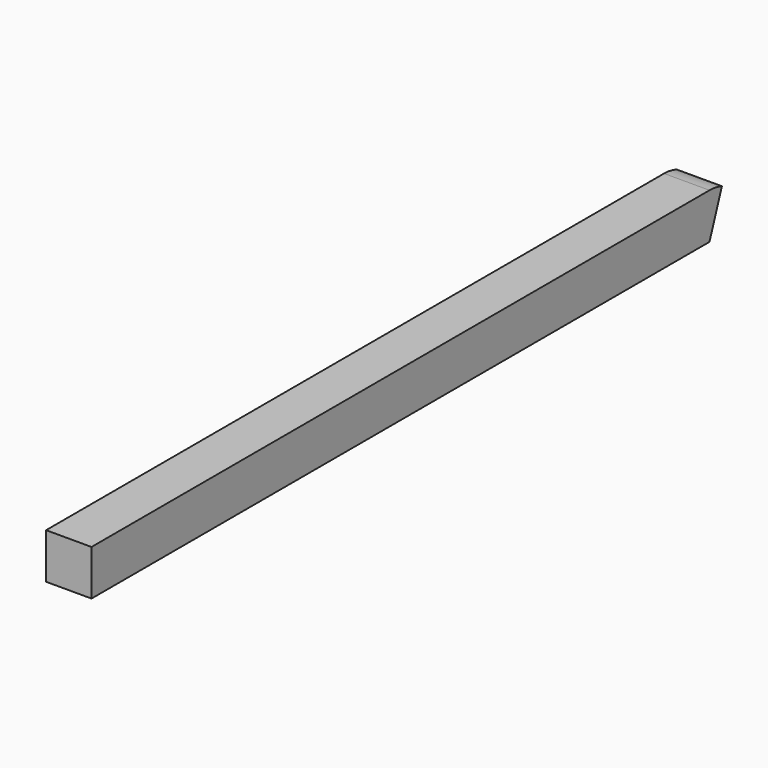
from build123d import *

# Parameters (mm, degrees)
F0_W     = 50
F0_H     = 50
F1_DEPTH = 850
F2_W     = 50
F2_H     = 50
F3_ANGLE = -20


with BuildPart() as f1:
    # F0 (on Front) → F1 (new body)
    with BuildSketch(Plane.XZ):
        with Locations((25, 25)):
            Rectangle(F0_W, F0_H)
    extrude(amount=F1_DEPTH)

    # F2 (on Front) → F3 (revolve)
    with BuildSketch(Plane.XZ):
        with Locations((25, 25)):
            Rectangle(F2_W, F2_H)
    revolve(axis=Axis((25, 0, 0), (1, 0, 0)), revolution_arc=F3_ANGLE)


solid = f1.part
